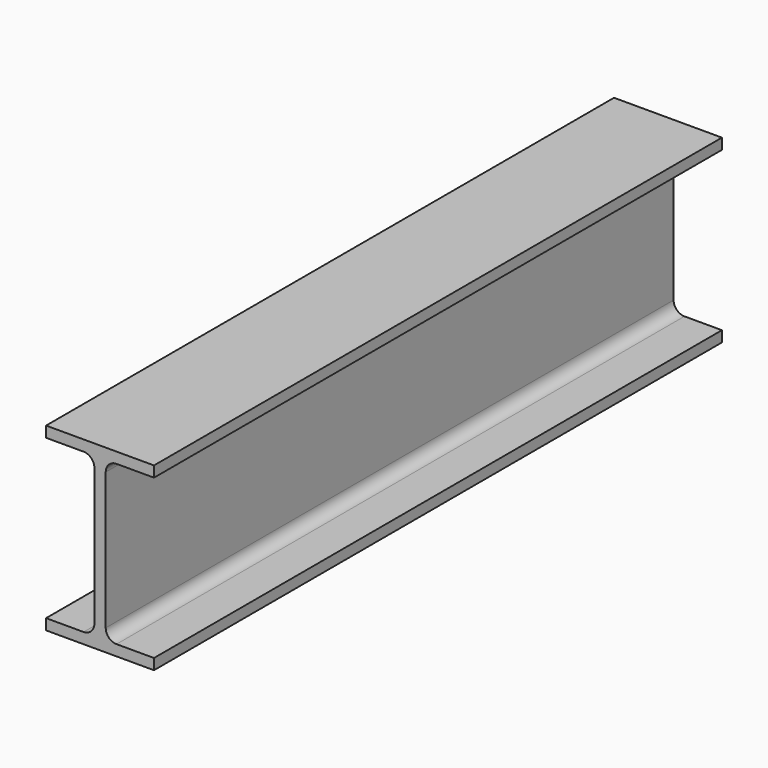
from build123d import *

# Parameters (mm, degrees)
F1_DEPTH = 500


with BuildPart() as f1:
    # F0 (on Front) → F1 (new body)
    with BuildSketch(Plane.XZ):
        with BuildLine():
            Line((4, -48.3), (4, 0))
            Line((4, 0), (4, 48.3))
            ThreePointArc((4, 48.3), (6.225988, 53.674012), (11.6, 55.9))
            Line((11.6, 55.9), (38, 55.9))
            Line((38, 55.9), (38, 63.5))
            Line((38, 63.5), (0, 63.5))
            Line((0, 63.5), (-38, 63.5))
            Line((-38, 63.5), (-38, 55.9))
            Line((-38, 55.9), (-11.6, 55.9))
            ThreePointArc((-11.6, 55.9), (-6.225988, 53.674012), (-4, 48.3))
            Line((-4, 48.3), (-4, 0))
            Line((-4, 0), (-4, -48.3))
            ThreePointArc((-4, -48.3), (-6.225988, -53.674012), (-11.6, -55.9))
            Line((-11.6, -55.9), (-38, -55.9))
            Line((-38, -55.9), (-38, -63.5))
            Line((-38, -63.5), (0, -63.5))
            Line((0, -63.5), (38, -63.5))
            Line((38, -63.5), (38, -55.9))
            Line((38, -55.9), (11.6, -55.9))
            ThreePointArc((11.6, -55.9), (6.225988, -53.674012), (4, -48.3))
        make_face()
    extrude(amount=-F1_DEPTH)


solid = f1.part
